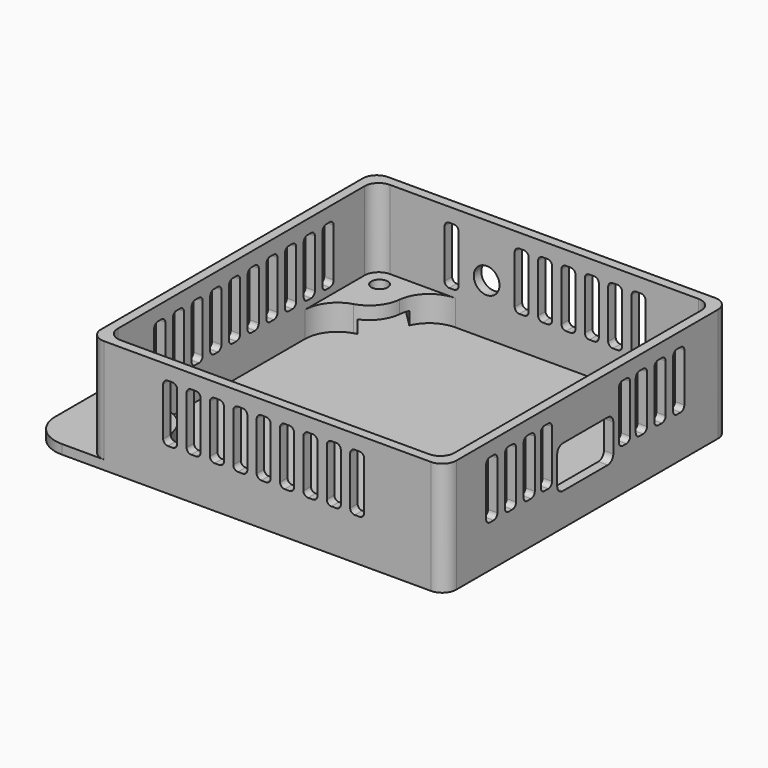
from build123d import *

# Parameters (mm, degrees)
CYLINDER011_R             = 1.75
CYLINDER011_DEPTH         = 3.25
BOX105_W                  = 6.3
BOX105_H                  = 6.3
BOX105_DEPTH              = 2.75
BOX106_W                  = 15
BOX106_H                  = 8.91
BOX106_DEPTH              = 2.75
BOX106_PLACEMENT_ANGLE    = 45
FUSION087_PLACEMENT_ANGLE = 270
CYLINDER012_R             = 1.75
CYLINDER012_DEPTH         = 3.25
BOX107_W                  = 6.3
BOX107_H                  = 6.3
BOX107_DEPTH              = 2.75
BOX108_W                  = 15
BOX108_H                  = 8.91
BOX108_DEPTH              = 2.75
BOX108_PLACEMENT_ANGLE    = 45
FUSION088_PLACEMENT_ANGLE = 90
CYLINDER013_R             = 1.75
CYLINDER013_DEPTH         = 3.25
BOX109_W                  = 6.3
BOX109_H                  = 6.3
BOX109_DEPTH              = 2.75
BOX110_W                  = 15
BOX110_H                  = 8.91
BOX110_DEPTH              = 2.75
BOX110_PLACEMENT_ANGLE    = 45
FUSION089_PLACEMENT_ANGLE = 180
CYLINDER010_R             = 1.75
CYLINDER010_DEPTH         = 3.25
BOX103_W                  = 6.3
BOX103_H                  = 6.3
BOX103_DEPTH              = 2.75
BOX104_W                  = 15
BOX104_H                  = 8.91
BOX104_DEPTH              = 2.75
BOX104_PLACEMENT_ANGLE    = 45
BOX004_W                  = 50
BOX004_H                  = 72
BOX004_DEPTH              = 5.5
FILLET004_R               = 7
BOX003_W                  = 72
BOX003_H                  = 50
BOX003_DEPTH              = 5.5
FILLET003_R               = 7
BOX002_W                  = 72
BOX002_H                  = 72
BOX002_DEPTH              = 5.5
FILLET002_R               = 3
FILLET005_R               = 7
BOX080_W                  = 3
BOX080_H                  = 2
BOX080_DEPTH              = 12.3
FILLET069_R               = 1
BOX082_W                  = 3
BOX082_H                  = 2
BOX082_DEPTH              = 12.3
FILLET072_R               = 1
BOX087_W                  = 3
BOX087_H                  = 2
BOX087_DEPTH              = 12.3
FILLET076_R               = 1
BOX079_W                  = 3
BOX079_H                  = 2
BOX079_DEPTH              = 12.3
FILLET068_R               = 1
BOX081_W                  = 3
BOX081_H                  = 2
BOX081_DEPTH              = 12.3
FILLET075_R               = 1
BOX083_W                  = 3
BOX083_H                  = 2
BOX083_DEPTH              = 12.3
FILLET070_R               = 1
BOX086_W                  = 3
BOX086_H                  = 2
BOX086_DEPTH              = 12.3
FILLET074_R               = 1
CYLINDER007_R             = 2.75
CYLINDER007_DEPTH         = 2
BOX043_W                  = 3
BOX043_H                  = 2
BOX043_DEPTH              = 12.3
FILLET045_R               = 1
BOX045_W                  = 3
BOX045_H                  = 2
BOX045_DEPTH              = 12.3
FILLET054_R               = 1
BOX047_W                  = 3
BOX047_H                  = 2
BOX047_DEPTH              = 12.3
FILLET047_R               = 1
BOX051_W                  = 3
BOX051_H                  = 2
BOX051_DEPTH              = 12.3
FILLET053_R               = 1
BOX048_W                  = 3
BOX048_H                  = 2
BOX048_DEPTH              = 12.3
FILLET052_R               = 1
BOX046_W                  = 3
BOX046_H                  = 2
BOX046_DEPTH              = 12.3
FILLET049_R               = 1
BOX044_W                  = 3
BOX044_H                  = 2
BOX044_DEPTH              = 12.3
FILLET046_R               = 1
BOX049_W                  = 3
BOX049_H                  = 2
BOX049_DEPTH              = 12.3
FILLET048_R               = 1
BOX078_W                  = 3
BOX078_H                  = 2
BOX078_DEPTH              = 12.3
FILLET067_R               = 1
BOX037_W                  = 3
BOX037_H                  = 2
BOX037_DEPTH              = 12.3
FILLET034_R               = 1
BOX036_W                  = 3
BOX036_H                  = 2
BOX036_DEPTH              = 12.3
FILLET037_R               = 1
BOX034_W                  = 3
BOX034_H                  = 2
BOX034_DEPTH              = 12.3
FILLET035_R               = 1
BOX035_W                  = 3
BOX035_H                  = 2
BOX035_DEPTH              = 12.3
FILLET036_R               = 1
FUSION026_PLACEMENT_ANGLE = 90
BOX038_W                  = 3
BOX038_H                  = 2
BOX038_DEPTH              = 12.3
FILLET039_R               = 1
BOX039_W                  = 3
BOX039_H                  = 2
BOX039_DEPTH              = 12.3
FILLET040_R               = 1
FUSION029_PLACEMENT_ANGLE = 90
BOX030_W                  = 3
BOX030_H                  = 2
BOX030_DEPTH              = 12.3
FILLET033_R               = 1
BOX032_W                  = 3
BOX032_H                  = 2
BOX032_DEPTH              = 12.3
FILLET031_R               = 1
BOX031_W                  = 3
BOX031_H                  = 2
BOX031_DEPTH              = 12.3
FILLET032_R               = 1
BOX033_W                  = 3
BOX033_H                  = 2
BOX033_DEPTH              = 12.3
FILLET030_R               = 1
FUSION021_PLACEMENT_ANGLE = 90
BOX095_W                  = 3
BOX095_H                  = 2
BOX095_DEPTH              = 12.3
FILLET081_R               = 1
FILLET081_PLACEMENT_ANGLE = 90
BOX089_W                  = 3
BOX089_H                  = 2
BOX089_DEPTH              = 12.3
FILLET079_R               = 1
BOX091_W                  = 3
BOX091_H                  = 2
BOX091_DEPTH              = 12.3
FILLET077_R               = 1
FUSION077_PLACEMENT_ANGLE = 90
BOX088_W                  = 3
BOX088_H                  = 2
BOX088_DEPTH              = 12.3
FILLET078_R               = 1
FILLET078_PLACEMENT_ANGLE = 90
BOX073_W                  = 3
BOX073_H                  = 2
BOX073_DEPTH              = 12.3
FILLET061_R               = 1
BOX067_W                  = 3
BOX067_H                  = 2
BOX067_DEPTH              = 12.3
FILLET056_R               = 1
BOX068_W                  = 3
BOX068_H                  = 2
BOX068_DEPTH              = 12.3
FILLET060_R               = 1
BOX074_W                  = 3
BOX074_H                  = 2
BOX074_DEPTH              = 12.3
FILLET059_R               = 1
FUSION042_PLACEMENT_ANGLE = 90
BOX096_W                  = 15
BOX096_H                  = 2
BOX096_DEPTH              = 9
FILLET082_R               = 1.5
BOX001_W                  = 72
BOX001_H                  = 72
BOX001_DEPTH              = 22.3
FILLET001_R               = 3
BOX_W                     = 76
BOX_H                     = 76
BOX_DEPTH                 = 24.3
FILLET_R                  = 3
CYLINDER006_R             = 2.5
CYLINDER006_DEPTH         = 2
CYLINDER005_R             = 2.5
CYLINDER005_DEPTH         = 2
CYLINDER004_R             = 2.5
CYLINDER004_DEPTH         = 2
BOX075_W                  = 23
BOX075_H                  = 76
BOX075_DEPTH              = 2
FILLET065_R               = 7


with BuildPart() as bolt_hole002:
    # Cylinder011 → Cylinder011 (new body)
    with BuildSketch(Plane(origin=(3.15, 3.15, 2.95), x_dir=(1, 0, 0), z_dir=(0, 0, 1))):
        Circle(CYLINDER011_R)
    extrude(amount=CYLINDER011_DEPTH)


with BuildPart() as nut_hole002:
    # Box105 → Box105 (new body)
    with BuildSketch(Plane.XY):
        with Locations((3.15, 3.15)):
            Rectangle(BOX105_W, BOX105_H)
    extrude(amount=BOX105_DEPTH)


with BuildPart() as obj1:
    # Box106 → Box106 (new body)
    with BuildSketch(Plane.XY):
        with Locations((7.5, 4.455)):
            Rectangle(BOX106_W, BOX106_H)
    extrude(amount=BOX106_DEPTH)


with BuildPart() as obj1_1:
    # Box106 placement: moved
    add(obj1.part.moved(Location((6.3, 0, 0))).rotate(Axis((6.3, 0, 0), (0, 0, 1)), BOX106_PLACEMENT_ANGLE))

    # Fusion087: union Bolt-Hole002, Nut-Hole002
    add(bolt_hole002.part)
    add(nut_hole002.part)


with BuildPart() as obj1_2:
    # Fusion087 placement: moved
    add(obj1_1.part.moved(Location((0.85, 71.15, 0))).rotate(Axis((0.85, 71.15, 0), (0, 0, 1)), FUSION087_PLACEMENT_ANGLE))


with BuildPart() as bolt_hole003:
    # Cylinder012 → Cylinder012 (new body)
    with BuildSketch(Plane(origin=(3.15, 3.15, 2.95), x_dir=(1, 0, 0), z_dir=(0, 0, 1))):
        Circle(CYLINDER012_R)
    extrude(amount=CYLINDER012_DEPTH)


with BuildPart() as nut_hole003:
    # Box107 → Box107 (new body)
    with BuildSketch(Plane.XY):
        with Locations((3.15, 3.15)):
            Rectangle(BOX107_W, BOX107_H)
    extrude(amount=BOX107_DEPTH)


with BuildPart() as obj2:
    # Box108 → Box108 (new body)
    with BuildSketch(Plane.XY):
        with Locations((7.5, 4.455)):
            Rectangle(BOX108_W, BOX108_H)
    extrude(amount=BOX108_DEPTH)


with BuildPart() as obj2_1:
    # Box108 placement: moved
    add(obj2.part.moved(Location((6.3, 0, 0))).rotate(Axis((6.3, 0, 0), (0, 0, 1)), BOX108_PLACEMENT_ANGLE))

    # Fusion088: union Bolt-Hole003, Nut-Hole003
    add(bolt_hole003.part)
    add(nut_hole003.part)


with BuildPart() as obj2_2:
    # Fusion088 placement: moved
    add(obj2_1.part.moved(Location((71.15, 0.85, 0))).rotate(Axis((71.15, 0.85, 0), (0, 0, 1)), FUSION088_PLACEMENT_ANGLE))


with BuildPart() as bolt_hole004:
    # Cylinder013 → Cylinder013 (new body)
    with BuildSketch(Plane(origin=(3.15, 3.15, 2.95), x_dir=(1, 0, 0), z_dir=(0, 0, 1))):
        Circle(CYLINDER013_R)
    extrude(amount=CYLINDER013_DEPTH)


with BuildPart() as nut_hole004:
    # Box109 → Box109 (new body)
    with BuildSketch(Plane.XY):
        with Locations((3.15, 3.15)):
            Rectangle(BOX109_W, BOX109_H)
    extrude(amount=BOX109_DEPTH)


with BuildPart() as obj3:
    # Box110 → Box110 (new body)
    with BuildSketch(Plane.XY):
        with Locations((7.5, 4.455)):
            Rectangle(BOX110_W, BOX110_H)
    extrude(amount=BOX110_DEPTH)


with BuildPart() as obj3_1:
    # Box110 placement: moved
    add(obj3.part.moved(Location((6.3, 0, 0))).rotate(Axis((6.3, 0, 0), (0, 0, 1)), BOX110_PLACEMENT_ANGLE))

    # Fusion089: union Bolt-Hole004, Nut-Hole004
    add(bolt_hole004.part)
    add(nut_hole004.part)


with BuildPart() as obj3_2:
    # Fusion089 placement: moved
    add(obj3_1.part.moved(Location((71.15, 71.15, 0))).rotate(Axis((71.15, 71.15, 0), (0, 0, 1)), FUSION089_PLACEMENT_ANGLE))


with BuildPart() as bolt_hole001:
    # Cylinder010 → Cylinder010 (new body)
    with BuildSketch(Plane(origin=(3.15, 3.15, 2.95), x_dir=(1, 0, 0), z_dir=(0, 0, 1))):
        Circle(CYLINDER010_R)
    extrude(amount=CYLINDER010_DEPTH)


with BuildPart() as nut_hole001:
    # Box103 → Box103 (new body)
    with BuildSketch(Plane.XY):
        with Locations((3.15, 3.15)):
            Rectangle(BOX103_W, BOX103_H)
    extrude(amount=BOX103_DEPTH)


with BuildPart() as boltholes:
    # Box104 → Box104 (new body)
    with BuildSketch(Plane.XY):
        with Locations((7.5, 4.455)):
            Rectangle(BOX104_W, BOX104_H)
    extrude(amount=BOX104_DEPTH)


with BuildPart() as boltholes_1:
    # Box104 placement: moved
    add(boltholes.part.moved(Location((6.3, 0, 0))).rotate(Axis((6.3, 0, 0), (0, 0, 1)), BOX104_PLACEMENT_ANGLE))

    # Fusion086: union Bolt-Hole001, Nut-Hole001
    add(bolt_hole001.part)
    add(nut_hole001.part)


with BuildPart() as boltholes_2:
    # Fusion086 placement: moved
    add(boltholes_1.part.moved(Location((0.85, 0.85, 0))))

    # Fusion090: union obj1, obj2, obj3
    add(obj1_2.part)
    add(obj2_2.part)
    add(obj3_2.part)


with BuildPart() as x_cutout:
    # Box004 → Box004 (new body)
    with BuildSketch(Plane(origin=(10, 0, 0), x_dir=(1, 0, 0), z_dir=(0, 0, 1))):
        with Locations((25, 36)):
            Rectangle(BOX004_W, BOX004_H)
    extrude(amount=BOX004_DEPTH)

    # Fillet004
    fillet004_edges = [x_cutout.edges().sort_by_distance(p)[0] for p in [
        (10, 0, 2.75),
        (10, 72, 2.75),
        (60, 0, 2.75),
        (60, 72, 2.75),
    ]]
    fillet(fillet004_edges, radius=FILLET004_R)


with BuildPart() as cutout:
    # Box003 → Box003 (new body)
    with BuildSketch(Plane(origin=(0, 10, 0), x_dir=(1, 0, 0), z_dir=(0, 0, 1))):
        with Locations((36, 25)):
            Rectangle(BOX003_W, BOX003_H)
    extrude(amount=BOX003_DEPTH)

    # Fillet003
    fillet003_edges = [cutout.edges().sort_by_distance(p)[0] for p in [
        (0, 10, 2.75),
        (0, 60, 2.75),
        (72, 10, 2.75),
        (72, 60, 2.75),
    ]]
    fillet(fillet003_edges, radius=FILLET003_R)

    # Fusion: union X-Cutout
    add(x_cutout.part)


with BuildPart() as obj4:
    # Box002 → Box002 (new body)
    with BuildSketch(Plane.XY):
        with Locations((36, 36)):
            Rectangle(BOX002_W, BOX002_H)
    extrude(amount=BOX002_DEPTH)

    # Fillet002
    fillet002_edges = [obj4.edges().sort_by_distance(p)[0] for p in [
        (0, 0, 2.75),
        (0, 72, 2.75),
        (72, 0, 2.75),
        (72, 72, 2.75),
    ]]
    fillet(fillet002_edges, radius=FILLET002_R)

    # Cut001: cut Cutout
    add(cutout.part, mode=Mode.SUBTRACT)

    # Fillet005
    fillet005_edges = [obj4.edges().sort_by_distance(p)[0] for p in [
        (10, 10, 2.75),
        (10, 60, 2.75),
        (60, 10, 2.75),
        (60, 60, 2.75),
    ]]
    fillet(fillet005_edges, radius=FILLET005_R)

    # Cut006: cut BoltHoles
    add(boltholes_2.part, mode=Mode.SUBTRACT)


with BuildPart() as obj4_1:
    # Cut006 placement: moved
    add(obj4.part.moved(Location((2, 2, 2))))


with BuildPart() as obj5:
    # Box080 → Box080 (new body)
    with BuildSketch(Plane.XY):
        with Locations((1.5, 1)):
            Rectangle(BOX080_W, BOX080_H)
    extrude(amount=BOX080_DEPTH)

    # Fillet069
    fillet069_edges = [obj5.edges().sort_by_distance(p)[0] for p in [
        (0, 1, 12.3),
        (0, 1, 0),
        (3, 1, 12.3),
        (3, 1, 0),
    ]]
    fillet(fillet069_edges, radius=FILLET069_R)


with BuildPart() as obj6:
    # Box082 → Box082 (new body)
    with BuildSketch(Plane.XY):
        with Locations((1.5, 1)):
            Rectangle(BOX082_W, BOX082_H)
    extrude(amount=BOX082_DEPTH)

    # Fillet072
    fillet072_edges = [obj6.edges().sort_by_distance(p)[0] for p in [
        (0, 1, 12.3),
        (0, 1, 0),
        (3, 1, 12.3),
        (3, 1, 0),
    ]]
    fillet(fillet072_edges, radius=FILLET072_R)


with BuildPart() as obj6_1:
    # Fillet072 placement: moved
    add(obj6.part.moved(Location((15, 0, 0))))


with BuildPart() as l:
    # Box087 → Box087 (new body)
    with BuildSketch(Plane.XY):
        with Locations((1.5, 1)):
            Rectangle(BOX087_W, BOX087_H)
    extrude(amount=BOX087_DEPTH)

    # Fillet076
    fillet076_edges = [l.edges().sort_by_distance(p)[0] for p in [
        (0, 1, 12.3),
        (0, 1, 0),
        (3, 1, 12.3),
        (3, 1, 0),
    ]]
    fillet(fillet076_edges, radius=FILLET076_R)


with BuildPart() as l_1:
    # Fillet076 placement: moved
    add(l.part.moved(Location((40, 0, 0))))


with BuildPart() as roundedslot062:
    # Box079 → Box079 (new body)
    with BuildSketch(Plane.XY):
        with Locations((1.5, 1)):
            Rectangle(BOX079_W, BOX079_H)
    extrude(amount=BOX079_DEPTH)

    # Fillet068
    fillet068_edges = [roundedslot062.edges().sort_by_distance(p)[0] for p in [
        (0, 1, 12.3),
        (0, 1, 0),
        (3, 1, 12.3),
        (3, 1, 0),
    ]]
    fillet(fillet068_edges, radius=FILLET068_R)


with BuildPart() as fusion073:
    # Box081 → Box081 (new body)
    with BuildSketch(Plane.XY):
        with Locations((1.5, 1)):
            Rectangle(BOX081_W, BOX081_H)
    extrude(amount=BOX081_DEPTH)

    # Fillet075
    fillet075_edges = [fusion073.edges().sort_by_distance(p)[0] for p in [
        (0, 1, 12.3),
        (0, 1, 0),
        (3, 1, 12.3),
        (3, 1, 0),
    ]]
    fillet(fillet075_edges, radius=FILLET075_R)


with BuildPart() as fusion073_1:
    # Fillet075 placement: moved
    add(fusion073.part.moved(Location((5, 0, 0))))

    # Fusion073: union RoundedSlot062
    add(roundedslot062.part)


with BuildPart() as fusion073_2:
    # Fusion073 placement: moved
    add(fusion073_1.part.moved(Location((10, 0, 0))))


with BuildPart() as roundedslot064:
    # Box083 → Box083 (new body)
    with BuildSketch(Plane.XY):
        with Locations((1.5, 1)):
            Rectangle(BOX083_W, BOX083_H)
    extrude(amount=BOX083_DEPTH)

    # Fillet070
    fillet070_edges = [roundedslot064.edges().sort_by_distance(p)[0] for p in [
        (0, 1, 12.3),
        (0, 1, 0),
        (3, 1, 12.3),
        (3, 1, 0),
    ]]
    fillet(fillet070_edges, radius=FILLET070_R)


with BuildPart() as f_4_l:
    # Box086 → Box086 (new body)
    with BuildSketch(Plane.XY):
        with Locations((1.5, 1)):
            Rectangle(BOX086_W, BOX086_H)
    extrude(amount=BOX086_DEPTH)

    # Fillet074
    fillet074_edges = [f_4_l.edges().sort_by_distance(p)[0] for p in [
        (0, 1, 12.3),
        (0, 1, 0),
        (3, 1, 12.3),
        (3, 1, 0),
    ]]
    fillet(fillet074_edges, radius=FILLET074_R)


with BuildPart() as f_4_l_1:
    # Fillet074 placement: moved
    add(f_4_l.part.moved(Location((5, 0, 0))))

    # Fusion074: union RoundedSlot064
    add(roundedslot064.part)

    # Fusion071: union Fusion073
    add(fusion073_2.part)


with BuildPart() as f_4_l_2:
    # Fusion071 placement: moved
    add(f_4_l_1.part.moved(Location((20, 0, 0))))


with BuildPart() as rightgrille:
    # Cylinder007 → Cylinder007 (new body)
    with BuildSketch(Plane(origin=(9, 0, 4), x_dir=(1, 0, 0), z_dir=(0, 1, 0))):
        Circle(CYLINDER007_R)
    extrude(amount=CYLINDER007_DEPTH)

    # Fusion075: union obj5, obj6, L, 4-L
    add(obj5.part)
    add(obj6_1.part)
    add(l_1.part)
    add(f_4_l_2.part)


with BuildPart() as rightgrille_1:
    # Fusion075 placement: moved
    add(rightgrille.part.moved(Location((16.7, 74, 9))))


with BuildPart() as roundedslot040:
    # Box043 → Box043 (new body)
    with BuildSketch(Plane.XY):
        with Locations((1.5, 1)):
            Rectangle(BOX043_W, BOX043_H)
    extrude(amount=BOX043_DEPTH)

    # Fillet045
    fillet045_edges = [roundedslot040.edges().sort_by_distance(p)[0] for p in [
        (0, 1, 12.3),
        (0, 1, 0),
        (3, 1, 12.3),
        (3, 1, 0),
    ]]
    fillet(fillet045_edges, radius=FILLET045_R)


with BuildPart() as fusion039:
    # Box045 → Box045 (new body)
    with BuildSketch(Plane.XY):
        with Locations((1.5, 1)):
            Rectangle(BOX045_W, BOX045_H)
    extrude(amount=BOX045_DEPTH)

    # Fillet054
    fillet054_edges = [fusion039.edges().sort_by_distance(p)[0] for p in [
        (0, 1, 12.3),
        (0, 1, 0),
        (3, 1, 12.3),
        (3, 1, 0),
    ]]
    fillet(fillet054_edges, radius=FILLET054_R)


with BuildPart() as fusion039_1:
    # Fillet054 placement: moved
    add(fusion039.part.moved(Location((5, 0, 0))))

    # Fusion039: union RoundedSlot040
    add(roundedslot040.part)


with BuildPart() as fusion039_2:
    # Fusion039 placement: moved
    add(fusion039_1.part.moved(Location((10, 0, 0))))


with BuildPart() as roundedslot042:
    # Box047 → Box047 (new body)
    with BuildSketch(Plane.XY):
        with Locations((1.5, 1)):
            Rectangle(BOX047_W, BOX047_H)
    extrude(amount=BOX047_DEPTH)

    # Fillet047
    fillet047_edges = [roundedslot042.edges().sort_by_distance(p)[0] for p in [
        (0, 1, 12.3),
        (0, 1, 0),
        (3, 1, 12.3),
        (3, 1, 0),
    ]]
    fillet(fillet047_edges, radius=FILLET047_R)


with BuildPart() as slot_template008:
    # Box051 → Box051 (new body)
    with BuildSketch(Plane.XY):
        with Locations((1.5, 1)):
            Rectangle(BOX051_W, BOX051_H)
    extrude(amount=BOX051_DEPTH)

    # Fillet053
    fillet053_edges = [slot_template008.edges().sort_by_distance(p)[0] for p in [
        (0, 1, 12.3),
        (0, 1, 0),
        (3, 1, 12.3),
        (3, 1, 0),
    ]]
    fillet(fillet053_edges, radius=FILLET053_R)


with BuildPart() as slot_template008_1:
    # Fillet053 placement: moved
    add(slot_template008.part.moved(Location((5, 0, 0))))

    # Fusion041: union RoundedSlot042
    add(roundedslot042.part)

    # Fusion034: union Fusion039
    add(fusion039_2.part)


with BuildPart() as slot_template008_2:
    # Fusion034 placement: moved
    add(slot_template008_1.part.moved(Location((20, 0, 0))))


with BuildPart() as roundedslot047:
    # Box048 → Box048 (new body)
    with BuildSketch(Plane.XY):
        with Locations((1.5, 1)):
            Rectangle(BOX048_W, BOX048_H)
    extrude(amount=BOX048_DEPTH)

    # Fillet052
    fillet052_edges = [roundedslot047.edges().sort_by_distance(p)[0] for p in [
        (0, 1, 12.3),
        (0, 1, 0),
        (3, 1, 12.3),
        (3, 1, 0),
    ]]
    fillet(fillet052_edges, radius=FILLET052_R)


with BuildPart() as fusion032:
    # Box046 → Box046 (new body)
    with BuildSketch(Plane.XY):
        with Locations((1.5, 1)):
            Rectangle(BOX046_W, BOX046_H)
    extrude(amount=BOX046_DEPTH)

    # Fillet049
    fillet049_edges = [fusion032.edges().sort_by_distance(p)[0] for p in [
        (0, 1, 12.3),
        (0, 1, 0),
        (3, 1, 12.3),
        (3, 1, 0),
    ]]
    fillet(fillet049_edges, radius=FILLET049_R)


with BuildPart() as fusion032_1:
    # Fillet049 placement: moved
    add(fusion032.part.moved(Location((5, 0, 0))))

    # Fusion032: union RoundedSlot047
    add(roundedslot047.part)


with BuildPart() as fusion032_2:
    # Fusion032 placement: moved
    add(fusion032_1.part.moved(Location((10, 0, 0))))


with BuildPart() as roundedslot041:
    # Box044 → Box044 (new body)
    with BuildSketch(Plane.XY):
        with Locations((1.5, 1)):
            Rectangle(BOX044_W, BOX044_H)
    extrude(amount=BOX044_DEPTH)

    # Fillet046
    fillet046_edges = [roundedslot041.edges().sort_by_distance(p)[0] for p in [
        (0, 1, 12.3),
        (0, 1, 0),
        (3, 1, 12.3),
        (3, 1, 0),
    ]]
    fillet(fillet046_edges, radius=FILLET046_R)


with BuildPart() as slot_template007:
    # Box049 → Box049 (new body)
    with BuildSketch(Plane.XY):
        with Locations((1.5, 1)):
            Rectangle(BOX049_W, BOX049_H)
    extrude(amount=BOX049_DEPTH)

    # Fillet048
    fillet048_edges = [slot_template007.edges().sort_by_distance(p)[0] for p in [
        (0, 1, 12.3),
        (0, 1, 0),
        (3, 1, 12.3),
        (3, 1, 0),
    ]]
    fillet(fillet048_edges, radius=FILLET048_R)


with BuildPart() as slot_template007_1:
    # Fillet048 placement: moved
    add(slot_template007.part.moved(Location((5, 0, 0))))

    # Fusion038: union RoundedSlot041
    add(roundedslot041.part)

    # Fusion033: union Fusion032
    add(fusion032_2.part)


with BuildPart() as leftgrille:
    # Box078 → Box078 (new body)
    with BuildSketch(Plane.XY):
        with Locations((1.5, 1)):
            Rectangle(BOX078_W, BOX078_H)
    extrude(amount=BOX078_DEPTH)

    # Fillet067
    fillet067_edges = [leftgrille.edges().sort_by_distance(p)[0] for p in [
        (0, 1, 12.3),
        (0, 1, 0),
        (3, 1, 12.3),
        (3, 1, 0),
    ]]
    fillet(fillet067_edges, radius=FILLET067_R)


with BuildPart() as leftgrille_1:
    # Fillet067 placement: moved
    add(leftgrille.part.moved(Location((40, 0, 0))))

    # Fusion068: union Slot-Template008, Slot-Template007
    add(slot_template008_2.part)
    add(slot_template007_1.part)


with BuildPart() as leftgrille_2:
    # Fusion068 placement: moved
    add(leftgrille_1.part.moved(Location((15.7, 0, 9))))


with BuildPart() as roundedslot029:
    # Box037 → Box037 (new body)
    with BuildSketch(Plane.XY):
        with Locations((1.5, 1)):
            Rectangle(BOX037_W, BOX037_H)
    extrude(amount=BOX037_DEPTH)

    # Fillet034
    fillet034_edges = [roundedslot029.edges().sort_by_distance(p)[0] for p in [
        (0, 1, 12.3),
        (0, 1, 0),
        (3, 1, 12.3),
        (3, 1, 0),
    ]]
    fillet(fillet034_edges, radius=FILLET034_R)


with BuildPart() as fusion024:
    # Box036 → Box036 (new body)
    with BuildSketch(Plane.XY):
        with Locations((1.5, 1)):
            Rectangle(BOX036_W, BOX036_H)
    extrude(amount=BOX036_DEPTH)

    # Fillet037
    fillet037_edges = [fusion024.edges().sort_by_distance(p)[0] for p in [
        (0, 1, 12.3),
        (0, 1, 0),
        (3, 1, 12.3),
        (3, 1, 0),
    ]]
    fillet(fillet037_edges, radius=FILLET037_R)


with BuildPart() as fusion024_1:
    # Fillet037 placement: moved
    add(fusion024.part.moved(Location((5, 0, 0))))

    # Fusion024: union RoundedSlot029
    add(roundedslot029.part)


with BuildPart() as fusion024_2:
    # Fusion024 placement: moved
    add(fusion024_1.part.moved(Location((10, 0, 0))))


with BuildPart() as roundedslot030:
    # Box034 → Box034 (new body)
    with BuildSketch(Plane.XY):
        with Locations((1.5, 1)):
            Rectangle(BOX034_W, BOX034_H)
    extrude(amount=BOX034_DEPTH)

    # Fillet035
    fillet035_edges = [roundedslot030.edges().sort_by_distance(p)[0] for p in [
        (0, 1, 12.3),
        (0, 1, 0),
        (3, 1, 12.3),
        (3, 1, 0),
    ]]
    fillet(fillet035_edges, radius=FILLET035_R)


with BuildPart() as slot_template005:
    # Box035 → Box035 (new body)
    with BuildSketch(Plane.XY):
        with Locations((1.5, 1)):
            Rectangle(BOX035_W, BOX035_H)
    extrude(amount=BOX035_DEPTH)

    # Fillet036
    fillet036_edges = [slot_template005.edges().sort_by_distance(p)[0] for p in [
        (0, 1, 12.3),
        (0, 1, 0),
        (3, 1, 12.3),
        (3, 1, 0),
    ]]
    fillet(fillet036_edges, radius=FILLET036_R)


with BuildPart() as slot_template005_1:
    # Fillet036 placement: moved
    add(slot_template005.part.moved(Location((5, 0, 0))))

    # Fusion025: union RoundedSlot030
    add(roundedslot030.part)

    # Fusion026: union Fusion024
    add(fusion024_2.part)


with BuildPart() as slot_template005_2:
    # Fusion026 placement: moved
    add(slot_template005_1.part.moved(Location((0, 20, 0))).rotate(Axis((0, 20, 0), (0, 0, 1)), FUSION026_PLACEMENT_ANGLE))


with BuildPart() as roundedslot034:
    # Box038 → Box038 (new body)
    with BuildSketch(Plane.XY):
        with Locations((1.5, 1)):
            Rectangle(BOX038_W, BOX038_H)
    extrude(amount=BOX038_DEPTH)

    # Fillet039
    fillet039_edges = [roundedslot034.edges().sort_by_distance(p)[0] for p in [
        (0, 1, 12.3),
        (0, 1, 0),
        (3, 1, 12.3),
        (3, 1, 0),
    ]]
    fillet(fillet039_edges, radius=FILLET039_R)


with BuildPart() as slot_template006:
    # Box039 → Box039 (new body)
    with BuildSketch(Plane.XY):
        with Locations((1.5, 1)):
            Rectangle(BOX039_W, BOX039_H)
    extrude(amount=BOX039_DEPTH)

    # Fillet040
    fillet040_edges = [slot_template006.edges().sort_by_distance(p)[0] for p in [
        (0, 1, 12.3),
        (0, 1, 0),
        (3, 1, 12.3),
        (3, 1, 0),
    ]]
    fillet(fillet040_edges, radius=FILLET040_R)


with BuildPart() as slot_template006_1:
    # Fillet040 placement: moved
    add(slot_template006.part.moved(Location((5, 0, 0))))

    # Fusion028: union RoundedSlot034
    add(roundedslot034.part)


with BuildPart() as slot_template006_2:
    # Fusion029 placement: moved
    add(slot_template006_1.part.moved(Location((0, 40, 0))).rotate(Axis((0, 40, 0), (0, 0, 1)), FUSION029_PLACEMENT_ANGLE))


with BuildPart() as roundedslot028:
    # Box030 → Box030 (new body)
    with BuildSketch(Plane.XY):
        with Locations((1.5, 1)):
            Rectangle(BOX030_W, BOX030_H)
    extrude(amount=BOX030_DEPTH)

    # Fillet033
    fillet033_edges = [roundedslot028.edges().sort_by_distance(p)[0] for p in [
        (0, 1, 12.3),
        (0, 1, 0),
        (3, 1, 12.3),
        (3, 1, 0),
    ]]
    fillet(fillet033_edges, radius=FILLET033_R)


with BuildPart() as fusion022:
    # Box032 → Box032 (new body)
    with BuildSketch(Plane.XY):
        with Locations((1.5, 1)):
            Rectangle(BOX032_W, BOX032_H)
    extrude(amount=BOX032_DEPTH)

    # Fillet031
    fillet031_edges = [fusion022.edges().sort_by_distance(p)[0] for p in [
        (0, 1, 12.3),
        (0, 1, 0),
        (3, 1, 12.3),
        (3, 1, 0),
    ]]
    fillet(fillet031_edges, radius=FILLET031_R)


with BuildPart() as fusion022_1:
    # Fillet031 placement: moved
    add(fusion022.part.moved(Location((5, 0, 0))))

    # Fusion022: union RoundedSlot028
    add(roundedslot028.part)


with BuildPart() as fusion022_2:
    # Fusion022 placement: moved
    add(fusion022_1.part.moved(Location((10, 0, 0))))


with BuildPart() as roundedslot027:
    # Box031 → Box031 (new body)
    with BuildSketch(Plane.XY):
        with Locations((1.5, 1)):
            Rectangle(BOX031_W, BOX031_H)
    extrude(amount=BOX031_DEPTH)

    # Fillet032
    fillet032_edges = [roundedslot027.edges().sort_by_distance(p)[0] for p in [
        (0, 1, 12.3),
        (0, 1, 0),
        (3, 1, 12.3),
        (3, 1, 0),
    ]]
    fillet(fillet032_edges, radius=FILLET032_R)


with BuildPart() as topgrill:
    # Box033 → Box033 (new body)
    with BuildSketch(Plane.XY):
        with Locations((1.5, 1)):
            Rectangle(BOX033_W, BOX033_H)
    extrude(amount=BOX033_DEPTH)

    # Fillet030
    fillet030_edges = [topgrill.edges().sort_by_distance(p)[0] for p in [
        (0, 1, 12.3),
        (0, 1, 0),
        (3, 1, 12.3),
        (3, 1, 0),
    ]]
    fillet(fillet030_edges, radius=FILLET030_R)


with BuildPart() as topgrill_1:
    # Fillet030 placement: moved
    add(topgrill.part.moved(Location((5, 0, 0))))

    # Fusion023: union RoundedSlot027
    add(roundedslot027.part)

    # Fusion021: union Fusion022
    add(fusion022_2.part)


with BuildPart() as topgrill_2:
    # Fusion021 placement: moved
    add(topgrill_1.part.rotate(Axis((0, 0, 0), (0, 0, 1)), FUSION021_PLACEMENT_ANGLE))

    # Fusion030: union Slot-Template005, Slot-Template006
    add(slot_template005_2.part)
    add(slot_template006_2.part)


with BuildPart() as topgrill_3:
    # Fusion030 placement: moved
    add(topgrill_2.part.moved(Location((2, 14.7, 9))))


with BuildPart() as roundedslot075:
    # Box095 → Box095 (new body)
    with BuildSketch(Plane.XY):
        with Locations((1.5, 1)):
            Rectangle(BOX095_W, BOX095_H)
    extrude(amount=BOX095_DEPTH)

    # Fillet081
    fillet081_edges = [roundedslot075.edges().sort_by_distance(p)[0] for p in [
        (0, 1, 12.3),
        (0, 1, 0),
        (3, 1, 12.3),
        (3, 1, 0),
    ]]
    fillet(fillet081_edges, radius=FILLET081_R)


with BuildPart() as roundedslot075_1:
    # Fillet081 placement: moved
    add(roundedslot075.part.moved(Location((0, 35.5, 0))).rotate(Axis((0, 35.5, 0), (0, 0, 1)), FILLET081_PLACEMENT_ANGLE))


with BuildPart() as roundedslot073:
    # Box089 → Box089 (new body)
    with BuildSketch(Plane.XY):
        with Locations((1.5, 1)):
            Rectangle(BOX089_W, BOX089_H)
    extrude(amount=BOX089_DEPTH)

    # Fillet079
    fillet079_edges = [roundedslot073.edges().sort_by_distance(p)[0] for p in [
        (0, 1, 12.3),
        (0, 1, 0),
        (3, 1, 12.3),
        (3, 1, 0),
    ]]
    fillet(fillet079_edges, radius=FILLET079_R)


with BuildPart() as f_2slot015:
    # Box091 → Box091 (new body)
    with BuildSketch(Plane.XY):
        with Locations((1.5, 1)):
            Rectangle(BOX091_W, BOX091_H)
    extrude(amount=BOX091_DEPTH)

    # Fillet077
    fillet077_edges = [f_2slot015.edges().sort_by_distance(p)[0] for p in [
        (0, 1, 12.3),
        (0, 1, 0),
        (3, 1, 12.3),
        (3, 1, 0),
    ]]
    fillet(fillet077_edges, radius=FILLET077_R)


with BuildPart() as f_2slot015_1:
    # Fillet077 placement: moved
    add(f_2slot015.part.moved(Location((5, 0, 0))))

    # Fusion077: union RoundedSlot073
    add(roundedslot073.part)


with BuildPart() as f_2slot015_2:
    # Fusion077 placement: moved
    add(f_2slot015_1.part.moved(Location((0, 40, 0))).rotate(Axis((0, 40, 0), (0, 0, 1)), FUSION077_PLACEMENT_ANGLE))


with BuildPart() as roundedslot072:
    # Box088 → Box088 (new body)
    with BuildSketch(Plane.XY):
        with Locations((1.5, 1)):
            Rectangle(BOX088_W, BOX088_H)
    extrude(amount=BOX088_DEPTH)

    # Fillet078
    fillet078_edges = [roundedslot072.edges().sort_by_distance(p)[0] for p in [
        (0, 1, 12.3),
        (0, 1, 0),
        (3, 1, 12.3),
        (3, 1, 0),
    ]]
    fillet(fillet078_edges, radius=FILLET078_R)


with BuildPart() as roundedslot072_1:
    # Fillet078 placement: moved
    add(roundedslot072.part.moved(Location((0, 50, 0))).rotate(Axis((0, 50, 0), (0, 0, 1)), FILLET078_PLACEMENT_ANGLE))


with BuildPart() as roundedslot056:
    # Box073 → Box073 (new body)
    with BuildSketch(Plane.XY):
        with Locations((1.5, 1)):
            Rectangle(BOX073_W, BOX073_H)
    extrude(amount=BOX073_DEPTH)

    # Fillet061
    fillet061_edges = [roundedslot056.edges().sort_by_distance(p)[0] for p in [
        (0, 1, 12.3),
        (0, 1, 0),
        (3, 1, 12.3),
        (3, 1, 0),
    ]]
    fillet(fillet061_edges, radius=FILLET061_R)


with BuildPart() as fusion047:
    # Box067 → Box067 (new body)
    with BuildSketch(Plane.XY):
        with Locations((1.5, 1)):
            Rectangle(BOX067_W, BOX067_H)
    extrude(amount=BOX067_DEPTH)

    # Fillet056
    fillet056_edges = [fusion047.edges().sort_by_distance(p)[0] for p in [
        (0, 1, 12.3),
        (0, 1, 0),
        (3, 1, 12.3),
        (3, 1, 0),
    ]]
    fillet(fillet056_edges, radius=FILLET056_R)


with BuildPart() as fusion047_1:
    # Fillet056 placement: moved
    add(fusion047.part.moved(Location((4.6, 0, 0))))

    # Fusion047: union RoundedSlot056
    add(roundedslot056.part)


with BuildPart() as fusion047_2:
    # Fusion047 placement: moved
    add(fusion047_1.part.moved(Location((10, 0, 0))))


with BuildPart() as roundedslot055:
    # Box068 → Box068 (new body)
    with BuildSketch(Plane.XY):
        with Locations((1.5, 1)):
            Rectangle(BOX068_W, BOX068_H)
    extrude(amount=BOX068_DEPTH)

    # Fillet060
    fillet060_edges = [roundedslot055.edges().sort_by_distance(p)[0] for p in [
        (0, 1, 12.3),
        (0, 1, 0),
        (3, 1, 12.3),
        (3, 1, 0),
    ]]
    fillet(fillet060_edges, radius=FILLET060_R)


with BuildPart() as slot_template010:
    # Box074 → Box074 (new body)
    with BuildSketch(Plane.XY):
        with Locations((1.5, 1)):
            Rectangle(BOX074_W, BOX074_H)
    extrude(amount=BOX074_DEPTH)

    # Fillet059
    fillet059_edges = [slot_template010.edges().sort_by_distance(p)[0] for p in [
        (0, 1, 12.3),
        (0, 1, 0),
        (3, 1, 12.3),
        (3, 1, 0),
    ]]
    fillet(fillet059_edges, radius=FILLET059_R)


with BuildPart() as slot_template010_1:
    # Fillet059 placement: moved
    add(slot_template010.part.moved(Location((5, 0, 0))))

    # Fusion046: union RoundedSlot055
    add(roundedslot055.part)

    # Fusion042: union Fusion047
    add(fusion047_2.part)


with BuildPart() as slot_template010_2:
    # Fusion042 placement: moved
    add(slot_template010_1.part.rotate(Axis((0, 0, 0), (0, 0, 1)), FUSION042_PLACEMENT_ANGLE))


with BuildPart() as grilles:
    # Box096 → Box096 (new body)
    with BuildSketch(Plane(origin=(0, 0, 0), x_dir=(0, 1, 0), z_dir=(0, 0, 1))):
        with Locations((7.5, 1)):
            Rectangle(BOX096_W, BOX096_H)
    extrude(amount=BOX096_DEPTH)

    # Fillet082
    fillet082_edges = [grilles.edges().sort_by_distance(p)[0] for p in [
        (-1, 0, 9),
        (-1, 0, 0),
        (-1, 15, 9),
        (-1, 15, 0),
    ]]
    fillet(fillet082_edges, radius=FILLET082_R)


with BuildPart() as grilles_1:
    # Fillet082 placement: moved
    add(grilles.part.moved(Location((0, 19, -2))))

    # Fusion078: union RoundedSlot075, 2Slot015, RoundedSlot072, Slot-Template010
    add(roundedslot075_1.part)
    add(f_2slot015_2.part)
    add(roundedslot072_1.part)
    add(slot_template010_2.part)


with BuildPart() as grilles_2:
    # Fusion078 placement: moved
    add(grilles_1.part.moved(Location((76, 11, 9))))

    # Fusion079: union RightGrille, LeftGrille, TopGrill
    add(rightgrille_1.part)
    add(leftgrille_2.part)
    add(topgrill_3.part)


with BuildPart() as remove_inner:
    # Box001 → Box001 (new body)
    with BuildSketch(Plane(origin=(2, 2, 2), x_dir=(1, 0, 0), z_dir=(0, 0, 1))):
        with Locations((36, 36)):
            Rectangle(BOX001_W, BOX001_H)
    extrude(amount=BOX001_DEPTH)

    # Fillet001
    fillet001_edges = [remove_inner.edges().sort_by_distance(p)[0] for p in [
        (2, 2, 13.15),
        (2, 74, 13.15),
        (74, 2, 13.15),
        (74, 74, 13.15),
    ]]
    fillet(fillet001_edges, radius=FILLET001_R)


with BuildPart() as fusion091:
    # Box → Box (new body)
    with BuildSketch(Plane.XY):
        with Locations((38, 38)):
            Rectangle(BOX_W, BOX_H)
    extrude(amount=BOX_DEPTH)

    # Fillet
    fillet_edges = [fusion091.edges().sort_by_distance(p)[0] for p in [
        (0, 0, 12.15),
        (0, 76, 12.15),
        (76, 0, 12.15),
        (76, 76, 12.15),
    ]]
    fillet(fillet_edges, radius=FILLET_R)

    # Cut: cut Remove-Inner
    add(remove_inner.part, mode=Mode.SUBTRACT)

    # Cut005: cut Grilles
    add(grilles_2.part, mode=Mode.SUBTRACT)

    # Fusion091: union obj4
    add(obj4_1.part)


with BuildPart() as fusion091_1:
    # Fusion091 placement: moved
    add(fusion091.part.moved(Location((13, 0, 0))))


with BuildPart() as righthole:
    # Cylinder006 → Cylinder006 (new body)
    with BuildSketch(Plane(origin=(0, 58.5, 0), x_dir=(1, 0, 0), z_dir=(0, 0, 1))):
        Circle(CYLINDER006_R)
    extrude(amount=CYLINDER006_DEPTH)


with BuildPart() as middlehole:
    # Cylinder005 → Cylinder005 (new body)
    with BuildSketch(Plane(origin=(0, 37.5, 0), x_dir=(1, 0, 0), z_dir=(0, 0, 1))):
        Circle(CYLINDER005_R)
    extrude(amount=CYLINDER005_DEPTH)


with BuildPart() as topmountholes:
    # Cylinder004 → Cylinder004 (new body)
    with BuildSketch(Plane(origin=(0, 14, 0), x_dir=(1, 0, 0), z_dir=(0, 0, 1))):
        Circle(CYLINDER004_R)
    extrude(amount=CYLINDER004_DEPTH)

    # Fusion054: union RightHole, MiddleHole
    add(righthole.part)
    add(middlehole.part)


with BuildPart() as topmountholes_1:
    # Fusion054 placement: moved
    add(topmountholes.part.moved(Location((8, 0, 0))))


with BuildPart() as obj7:
    # Box075 → Box075 (new body)
    with BuildSketch(Plane.XY):
        with Locations((11.5, 38)):
            Rectangle(BOX075_W, BOX075_H)
    extrude(amount=BOX075_DEPTH)

    # Fillet065
    fillet065_edges = [obj7.edges().sort_by_distance(p)[0] for p in [
        (0, 0, 1),
        (0, 76, 1),
    ]]
    fillet(fillet065_edges, radius=FILLET065_R)

    # Cut004: cut TopMountHoles
    add(topmountholes_1.part, mode=Mode.SUBTRACT)

    # Fusion092: union Fusion091
    add(fusion091_1.part)


solid = obj7.part
